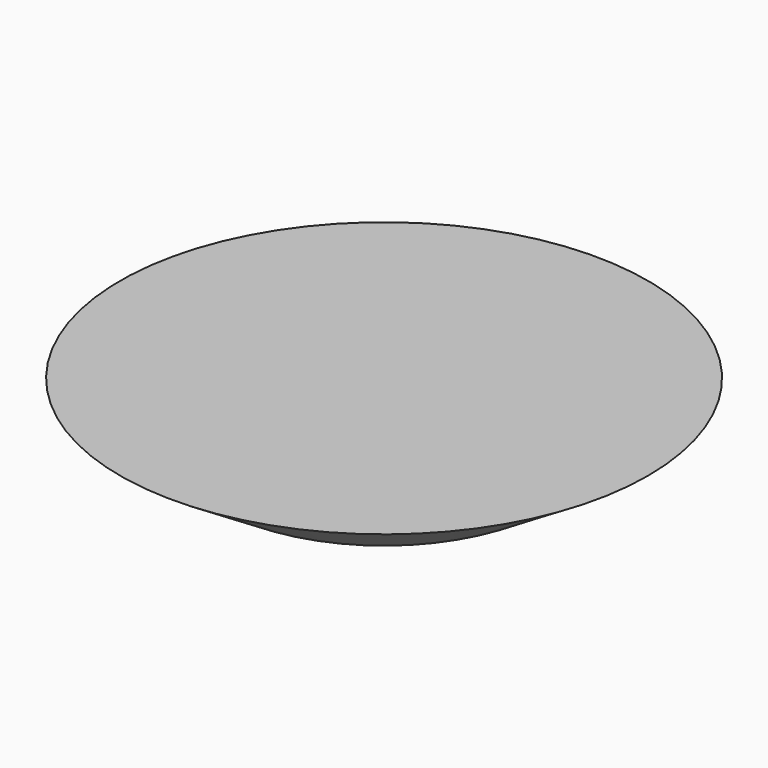
from build123d import *


with BuildPart() as obj1:
    # Cone → Cone (revolve)
    with BuildSketch(Plane(origin=(0, -30, 57), x_dir=(1, 0, 0), z_dir=(0, 1, 0))):
        Polygon((0, 0), (7, 0), (11, 2.5), (0, 2.5), align=None)
    revolve(axis=Axis((0, -30, 57), (0, 0, -1)))


with BuildPart() as obj2:
    # Part__Mirroring001: instance of obj1
    add(obj1.part.mirror(Plane(origin=(0, 0, 0), x_dir=(1, 0, 0), z_dir=(0, 1, 0))))


with BuildPart() as obj3:
    # Part__Mirroring005: instance of obj2
    add(obj2.part.mirror(Plane(origin=(0, 0, 0), x_dir=(0, 1, 0), z_dir=(0, 0, 1))))


solid = obj3.part
